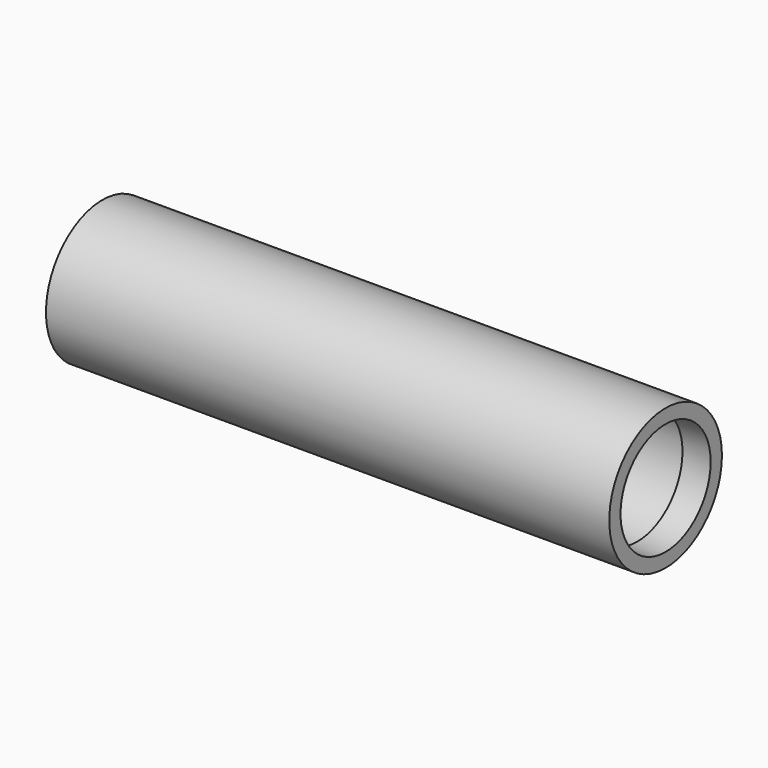
from build123d import *

# Parameters (mm, degrees)
F0_R     = 25
F0_R_2   = 20
F1_DEPTH = 100
F2_R     = 22.5
F2_R_2   = 20
F3_DEPTH = 190


with BuildPart() as f1:
    # F0 (on Right) → F1 (new body, symmetric)
    with BuildSketch(Plane.YZ):
        Circle(F0_R)
        Circle(F0_R_2, mode=Mode.SUBTRACT)
    extrude(amount=F1_DEPTH, both=True)

    # F2 (on face) → F3 (cut)
    with BuildSketch(Plane(origin=(-100, 0, 0), x_dir=(0, -1, 0), z_dir=(-1, 0, 0))):
        Circle(F2_R)
        Circle(F2_R_2, mode=Mode.SUBTRACT)
    extrude(amount=-F3_DEPTH, mode=Mode.SUBTRACT)


solid = f1.part
